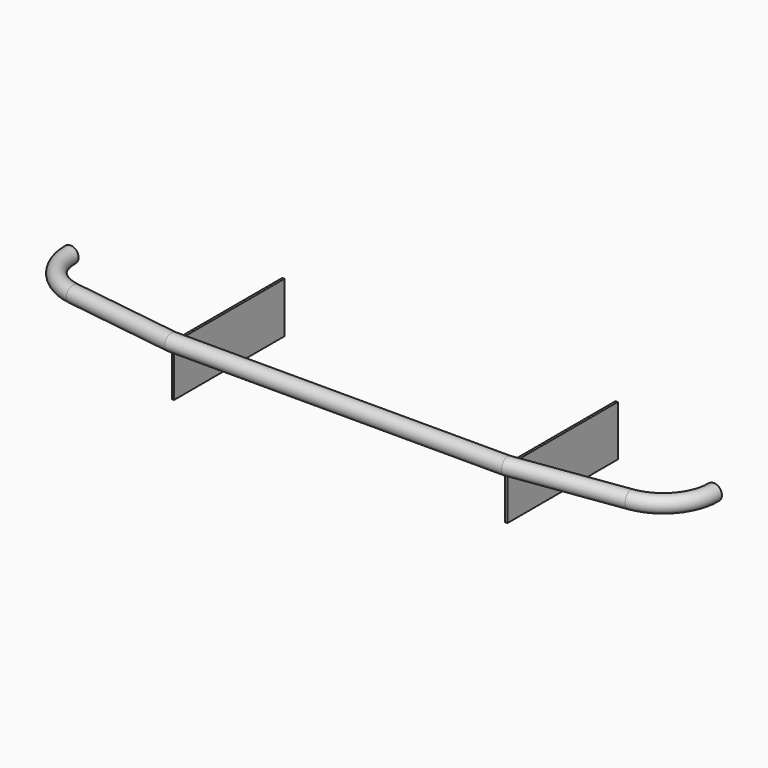
from build123d import *

# Parameters (mm, degrees)
F0_W     = 6.35
F0_H     = 139.7
F1_DEPTH = 381
F5_R     = 22.225
F5_R_2   = 20.701


with BuildPart() as f1:
    # F0 (on Front) → F1 (new body)
    with BuildSketch(Plane.XZ):
        with Locations((-41.7729020119, 44.714268426)):
            Rectangle(F0_W, F0_H)
    extrude(amount=-F1_DEPTH)


with BuildPart() as f1b:
    # F0 (on Front) → F1, piece 2 (new body)
    with BuildSketch(Plane.XZ):
        with Locations((878.9770979881, 44.714268426)):
            Rectangle(F0_W, F0_H)
    extrude(amount=-F1_DEPTH)


with BuildPart() as f6:
    # F6: sweep along a path in F3
    with BuildLine(Plane(origin=(0, 0, 114.564268426), x_dir=(1, 0, 0), z_dir=(0, 0, -1))) as f6_path:
        ThreePointArc((1307.0701669502, -181.4710030579), (1272.8492780718, -89.8727109504), (1186.9520979881, -43.1502237916))
        Line((1186.9520979881, -43.1502237916), (882.1520979881, 0))
        Line((882.1520979881, 0), (-44.9479020119, 0))
        Line((-44.9479020119, 0), (-349.7479020119, -43.1502237916))
        ThreePointArc((-349.7479020119, -43.1502237916), (-435.6450820955, -89.8727109504), (-469.8659709739, -181.4710030579))
    # F5 (on line) → F6 (sweep)
    with BuildSketch(Plane.XZ.offset(-181.4710030579)):
        with Locations((1307.0701669502, 114.564268426)):
            Circle(F5_R)
        with Locations((1307.0701669502, 114.564268426)):
            Circle(F5_R_2, mode=Mode.SUBTRACT)
    sweep(path=f6_path.line, transition=Transition.RIGHT)


solid = Compound([f1.part, f1b.part, f6.part])
